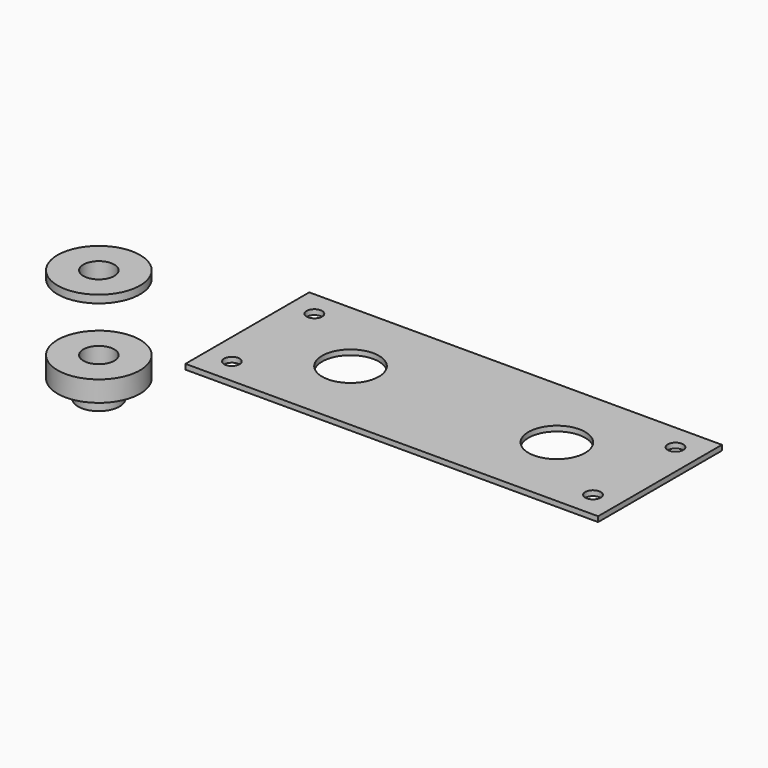
from build123d import *

# Parameters (mm, degrees)
F2_W     = 80
F2_H     = 30
F2_R     = 1.5
F2_R_2   = 5.5
F3_DEPTH = 1


with BuildPart() as f1:
    # F0 (on Front) → F1 (revolve)
    with BuildSketch(Plane.XZ):
        Polygon((-3, -2), (-3, 1.5), (-8, 1.5), (-8, 0), (-4, 0), (-4, -2), align=None)
    revolve(axis=Axis((0, 0, 2.077047), (0, 0, -1)))


with BuildPart() as f3:
    # F2 (on Top) → F3 (new body)
    with BuildSketch(Plane.XY):
        with Locations((68.786818, 0)):
            Rectangle(F2_W, F2_H)
        with Locations((33.786818, -10)):
            Circle(F2_R, mode=Mode.SUBTRACT)
        with Locations((103.786818, -10)):
            Circle(F2_R, mode=Mode.SUBTRACT)
        with Locations((48.786818, 0)):
            Circle(F2_R_2, mode=Mode.SUBTRACT)
        with Locations((33.786818, 10)):
            Circle(F2_R, mode=Mode.SUBTRACT)
        with Locations((88.786818, 0)):
            Circle(F2_R_2, mode=Mode.SUBTRACT)
        with Locations((103.786818, 10)):
            Circle(F2_R, mode=Mode.SUBTRACT)
    extrude(amount=F3_DEPTH)


with BuildPart() as f5:
    # F4 (on Front) → F5 (revolve)
    with BuildSketch(Plane.XZ):
        Polygon((-3, -20.464356), (-3, -12.964356), (-8, -12.964356), (-8, -16.964356), (-4, -16.964356), (-4, -20.464356), align=None)
    revolve(axis=Axis((0, 0, -17.545227), (0, 0, -1)))


solid = Compound([f1.part, f3.part, f5.part])
